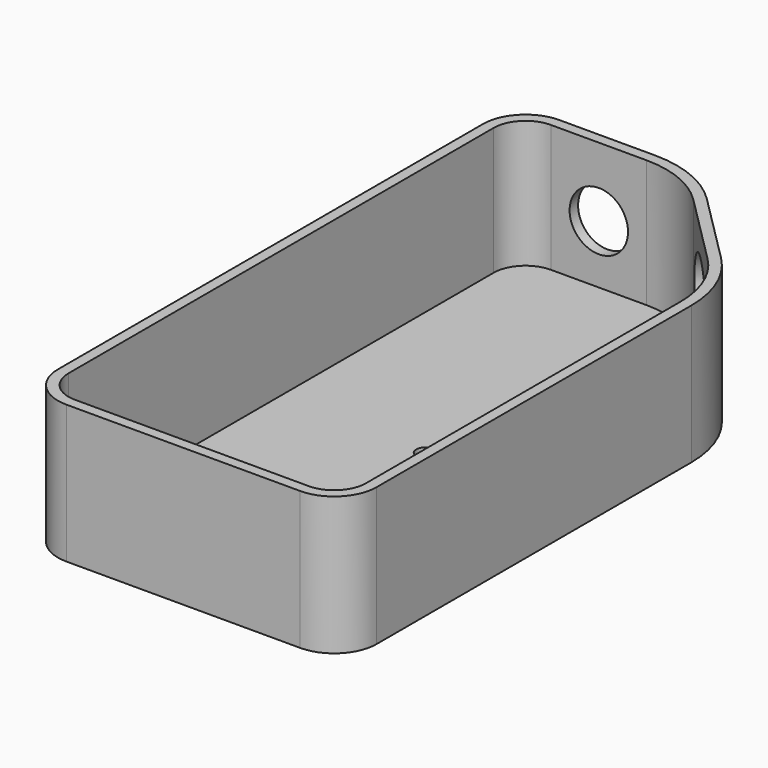
from build123d import *

# Parameters (mm, degrees)
PAD_DEPTH       = 26
POCKET_DEPTH    = 24
SKETCH002_R     = 8.25
POCKET001_DEPTH = 3
SKETCH003_R     = 5.5
POCKET002_DEPTH = 3
SKETCH004_R     = 1.75
POCKET003_DEPTH = 5


with BuildPart() as part:
    # Sketch → Pad (new body)
    with BuildSketch(Plane.XY):
        with BuildLine():
            Line((60, 8), (60, 82.000001))
            ThreePointArc((60, 82.000001), (58.434586, 89.869877), (53.976662, 96.541638))
            Line((40.541631, 109.976664), (53.976662, 96.541638))
            ThreePointArc((40.541631, 109.976664), (33.869872, 114.434584), (25.999999, 115.999997))
            Line((7.999999, 115.999997), (25.999999, 115.999997))
            ThreePointArc((7.999999, 115.999997), (2.343146, 113.656851), (0, 107.999998))
            Line((0, 107.999998), (0, 8))
            ThreePointArc((0, 8), (2.343146, 2.343146), (8, 0))
            Line((8, 0), (52, 0))
            ThreePointArc((52, 0), (57.656854, 2.343146), (60, 8))
        make_face()
    extrude(amount=PAD_DEPTH)

    # Sketch001 → Pocket (cut)
    with BuildSketch(Plane.XY.offset(26)):
        with BuildLine():
            ThreePointArc((8.00001, 113.999998), (3.757363, 112.242642), (2, 107.999998))
            Line((2, 107.999998), (2, 8))
            ThreePointArc((2, 8), (3.757359, 3.757359), (8, 2))
            Line((8, 2), (52, 2))
            ThreePointArc((52, 2), (56.242642, 3.757359), (58.000001, 8))
            Line((58.000001, 82), (58.000001, 8))
            ThreePointArc((58.000001, 82), (56.586824, 89.104519), (52.562435, 95.127438))
            Line((39.127419, 108.562437), (52.562435, 95.127438))
            ThreePointArc((39.127419, 108.562437), (33.104503, 112.586822), (25.99999, 113.999998))
            Line((8.00001, 113.999998), (25.99999, 113.999998))
        make_face()
    extrude(amount=-POCKET_DEPTH, mode=Mode.SUBTRACT)

    # Sketch002 → Pocket001 (cut)
    with BuildSketch(Plane(origin=(75.259141, 75.259166, 0), x_dir=(-0.707107, 0.707107, 0), z_dir=(0.707107, 0.707107, 0))):
        with Locations((39.5, 13)):
            Circle(SKETCH002_R)
    extrude(amount=-POCKET001_DEPTH, mode=Mode.SUBTRACT)

    # Sketch003 → Pocket002 (cut)
    with BuildSketch(Plane(origin=(0, 115.999997, 0), x_dir=(-1, 0, 0), z_dir=(0, 1, 0))):
        with Locations((-17, 13)):
            Circle(SKETCH003_R)
    extrude(amount=-POCKET002_DEPTH, mode=Mode.SUBTRACT)

    # Sketch004 → Pocket003 (cut)
    with BuildSketch(Plane.XY.offset(2)):
        with Locations((30, 29)):
            Circle(SKETCH004_R)
        with Locations((30, 57)):
            Circle(SKETCH004_R)
    extrude(amount=-POCKET003_DEPTH, mode=Mode.SUBTRACT)


solid = part.part
